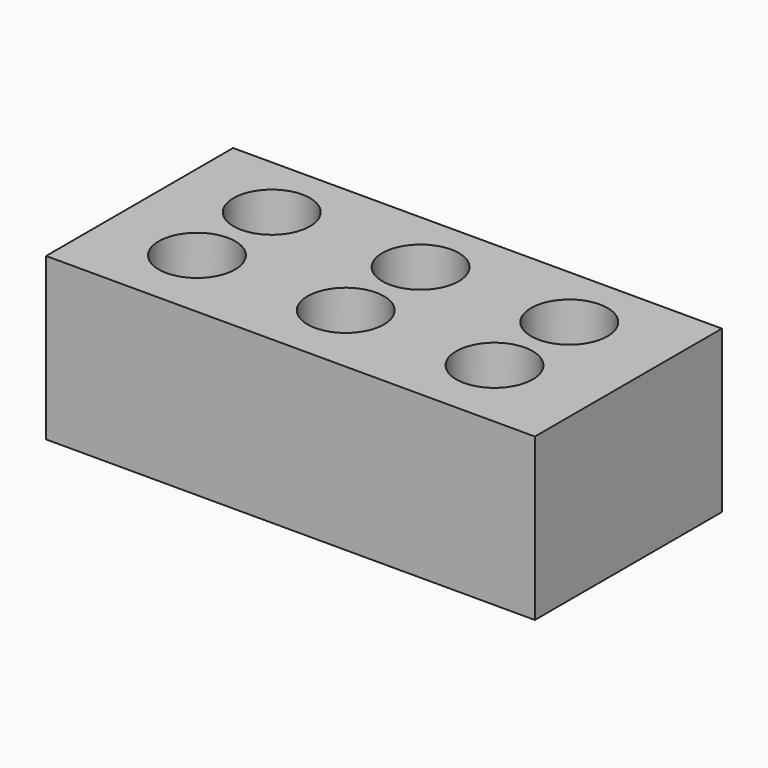
from build123d import *

# Parameters (mm, degrees)
CYLINDER001_R     = 18
CYLINDER001_DEPTH = 76
CYLINDER002_R     = 18
CYLINDER002_DEPTH = 76
CYLINDER003_R     = 18
CYLINDER003_DEPTH = 76
CYLINDER004_R     = 18
CYLINDER004_DEPTH = 76
CYLINDER005_R     = 18
CYLINDER005_DEPTH = 76
CYLINDER_R        = 18
CYLINDER_DEPTH    = 76
BOX_W             = 230
BOX_H             = 110
BOX_DEPTH         = 76


with BuildPart() as cilindre001:
    # Cylinder001 → Cylinder001 (new body)
    with BuildSketch(Plane(origin=(113, 79, 0), x_dir=(1, 0, 0), z_dir=(0, 0, 1))):
        Circle(CYLINDER001_R)
    extrude(amount=CYLINDER001_DEPTH)


with BuildPart() as cilindre002:
    # Cylinder002 → Cylinder002 (new body)
    with BuildSketch(Plane(origin=(183, 79, 0), x_dir=(1, 0, 0), z_dir=(0, 0, 1))):
        Circle(CYLINDER002_R)
    extrude(amount=CYLINDER002_DEPTH)


with BuildPart() as cilindre003:
    # Cylinder003 → Cylinder003 (new body)
    with BuildSketch(Plane(origin=(43, 35, 0), x_dir=(1, 0, 0), z_dir=(0, 0, 1))):
        Circle(CYLINDER003_R)
    extrude(amount=CYLINDER003_DEPTH)


with BuildPart() as cilindre004:
    # Cylinder004 → Cylinder004 (new body)
    with BuildSketch(Plane(origin=(113, 35, 0), x_dir=(1, 0, 0), z_dir=(0, 0, 1))):
        Circle(CYLINDER004_R)
    extrude(amount=CYLINDER004_DEPTH)


with BuildPart() as cilindre005:
    # Cylinder005 → Cylinder005 (new body)
    with BuildSketch(Plane(origin=(183, 35, 0), x_dir=(1, 0, 0), z_dir=(0, 0, 1))):
        Circle(CYLINDER005_R)
    extrude(amount=CYLINDER005_DEPTH)


with BuildPart() as fusion:
    # Cylinder → Cylinder (new body)
    with BuildSketch(Plane(origin=(43, 79, 0), x_dir=(1, 0, 0), z_dir=(0, 0, 1))):
        Circle(CYLINDER_R)
    extrude(amount=CYLINDER_DEPTH)

    # Fusion: union Cilindre001, Cilindre002, Cilindre003, Cilindre004, Cilindre005
    add(cilindre001.part)
    add(cilindre002.part)
    add(cilindre003.part)
    add(cilindre004.part)
    add(cilindre005.part)


with BuildPart() as cut:
    # Box → Box (new body)
    with BuildSketch(Plane.XY):
        with Locations((115, 55)):
            Rectangle(BOX_W, BOX_H)
    extrude(amount=BOX_DEPTH)

    # Cut: cut Fusion
    add(fusion.part, mode=Mode.SUBTRACT)


solid = cut.part
